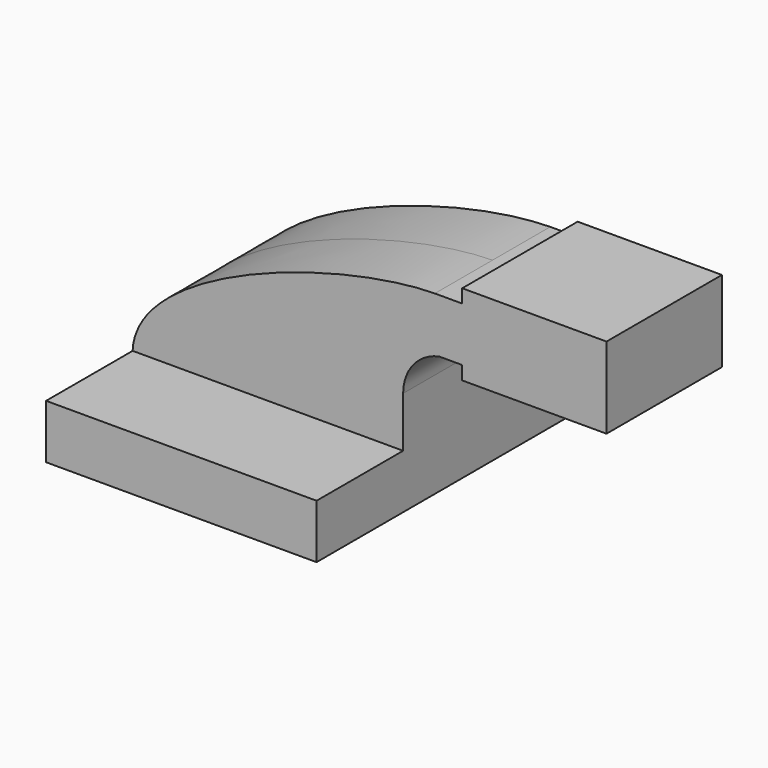
from build123d import *

# Parameters (mm, degrees)
F1_DEPTH = 63.5
F2_DEPTH = 25.4


with BuildPart() as f1:
    # F0 (on Front) → F1 (new body, symmetric)
    with BuildSketch(Plane.XZ):
        Polygon((-47.625, 9.525), (-47.625, -9.525), (47.625, -9.525), (47.625, 9.525), (28.575, 9.525), align=None)
    extrude(amount=F1_DEPTH, both=True)

    # F0 (on Front) → F2 (join, symmetric)
    with BuildSketch(Plane.XZ):
        Polygon((-47.625, 9.525), (-47.625, -9.525), (47.625, -9.525), (47.625, 9.525), (28.575, 9.525), align=None)
        with BuildLine():
            add(Edge.make_bspline(
                [(-47.625, 9.525), (-46.467692, 38.43854), (24.964292, 61.567295), (58.792322, 61.9252)],
                knots=[0, 0, 0, 0, 118.618833, 118.618833, 118.618833, 118.618833], degree=3))
            Line((-47.625, 9.525), (28.575, 9.525))
            Line((28.575, 9.525), (28.575, 27.318938))
            ThreePointArc((28.575, 27.318938), (37.19248, 50.290006), (58.792322, 61.9252))
        make_face()
        with BuildLine():
            Line((28.575, 9.525), (47.625, 9.525))
            Line((47.625, 9.525), (47.625, 27.318938))
            ThreePointArc((47.625, 27.318938), (51.20645, 37.363053), (60.334826, 42.8752))
            Line((60.334826, 42.8752), (68.441236, 42.8752))
            Line((68.441236, 42.8752), (68.441236, 61.9252))
            Line((68.441236, 61.9252), (58.792322, 61.9252))
            ThreePointArc((58.792322, 61.9252), (37.19248, 50.290006), (28.575, 27.318938))
            Line((28.575, 27.318938), (28.575, 9.525))
        make_face()
        Polygon((68.441236, 66.675), (68.441236, 61.9252), (68.441236, 42.8752), (68.441236, 38.1), (119.241236, 38.1), (119.241236, 66.675), align=None)
    extrude(amount=F2_DEPTH, both=True)


solid = f1.part
